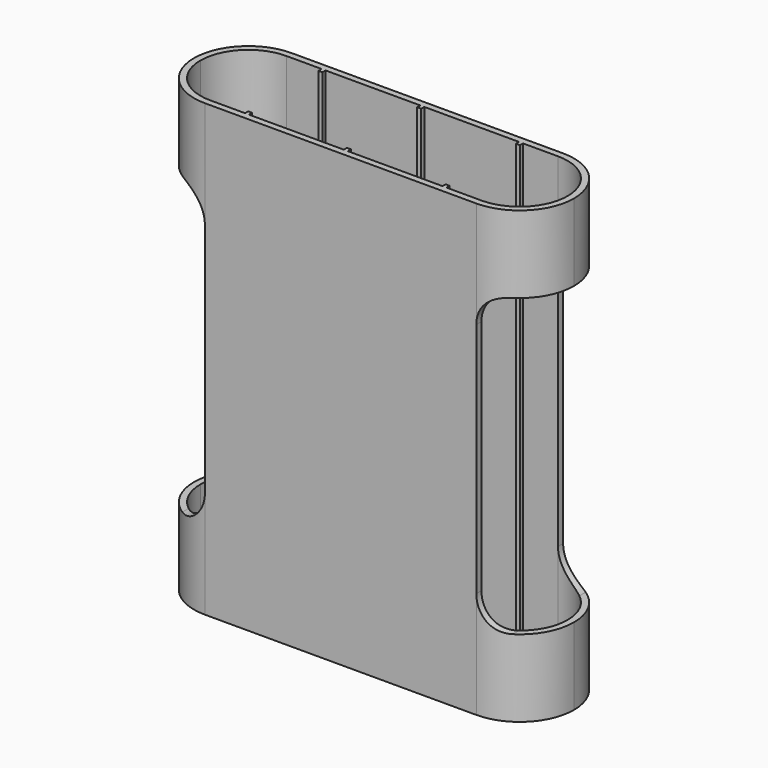
from build123d import *

# Parameters (mm, degrees)
F1_DEPTH = 45.625
F3_DEPTH = 12.5


with BuildPart() as f1:
    # F0 (on Top) → F1 (new body, symmetric)
    with BuildSketch(Plane.XY):
        with BuildLine():
            Line((27.5, 11), (-27.5, 11))
            ThreePointArc((-27.5, 11), (-35.278175, 7.778175), (-38.5, 0))
            ThreePointArc((-38.5, 0), (-35.278175, -7.778175), (-27.5, -11))
            Line((-27.5, -11), (27.5, -11))
            ThreePointArc((27.5, -11), (35.278175, -7.778175), (38.5, 0))
            ThreePointArc((38.5, 0), (35.278175, 7.778175), (27.5, 11))
        make_face()
        with BuildLine():
            ThreePointArc((-37.2, 0), (-34.358936, 6.858936), (-27.5, 9.7))
            Line((-27.5, 9.7), (-20.4, 9.7))
            Line((-20.4, 9.7), (-20.4, 8.9))
            Line((-20.4, 8.9), (-19.6, 8.9))
            Line((-19.6, 8.9), (-19.6, 9.7))
            Line((-19.6, 9.7), (-0.4, 9.7))
            Line((-0.4, 9.7), (-0.4, 8.9))
            Line((-0.4, 8.9), (0.4, 8.9))
            Line((0.4, 8.9), (0.4, 9.7))
            Line((0.4, 9.7), (19.6, 9.7))
            Line((19.6, 9.7), (19.6, 8.9))
            Line((19.6, 8.9), (20.4, 8.9))
            Line((20.4, 8.9), (20.4, 9.7))
            Line((20.4, 9.7), (27.5, 9.7))
            ThreePointArc((27.5, 9.7), (34.358936, 6.858936), (37.2, 0))
            ThreePointArc((37.2, 0), (34.358936, -6.858936), (27.5, -9.7))
            Line((27.5, -9.7), (20.4, -9.7))
            Line((20.4, -9.7), (20.4, -8.9))
            Line((20.4, -8.9), (19.6, -8.9))
            Line((19.6, -8.9), (19.6, -9.7))
            Line((19.6, -9.7), (0.4, -9.7))
            Line((0.4, -9.7), (0.4, -8.9))
            Line((0.4, -8.9), (-0.4, -8.9))
            Line((-0.4, -8.9), (-0.4, -9.7))
            Line((-0.4, -9.7), (-19.6, -9.7))
            Line((-19.6, -9.7), (-19.6, -8.9))
            Line((-19.6, -8.9), (-20.4, -8.9))
            Line((-20.4, -8.9), (-20.4, -9.7))
            Line((-20.4, -9.7), (-27.5, -9.7))
            ThreePointArc((-27.5, -9.7), (-34.358936, -6.858936), (-37.2, 0))
        make_face(mode=Mode.SUBTRACT)
    extrude(amount=F1_DEPTH, both=True)

    # F2 (on Front) → F3 (cut, symmetric)
    with BuildSketch(Plane.XZ):
        with BuildLine():
            ThreePointArc((-27.5, 24), (-29.257359, 28.242641), (-33.5, 30))
            Line((-33.5, 30), (-38.5, 30))
            Line((-38.5, 30), (-38.5, -30))
            Line((-38.5, -30), (-33.5, -30))
            ThreePointArc((-33.5, -30), (-29.257359, -28.242641), (-27.5, -24))
            Line((-27.5, -24), (-27.5, 24))
        make_face()
        with BuildLine():
            ThreePointArc((33.5, 30), (29.257359, 28.242641), (27.5, 24))
            Line((27.5, 24), (27.5, -24))
            ThreePointArc((27.5, -24), (29.257359, -28.242641), (33.5, -30))
            Line((33.5, -30), (38.5, -30))
            Line((38.5, -30), (38.5, 30))
            Line((38.5, 30), (33.5, 30))
        make_face()
    extrude(amount=F3_DEPTH, both=True, mode=Mode.SUBTRACT)


solid = f1.part
